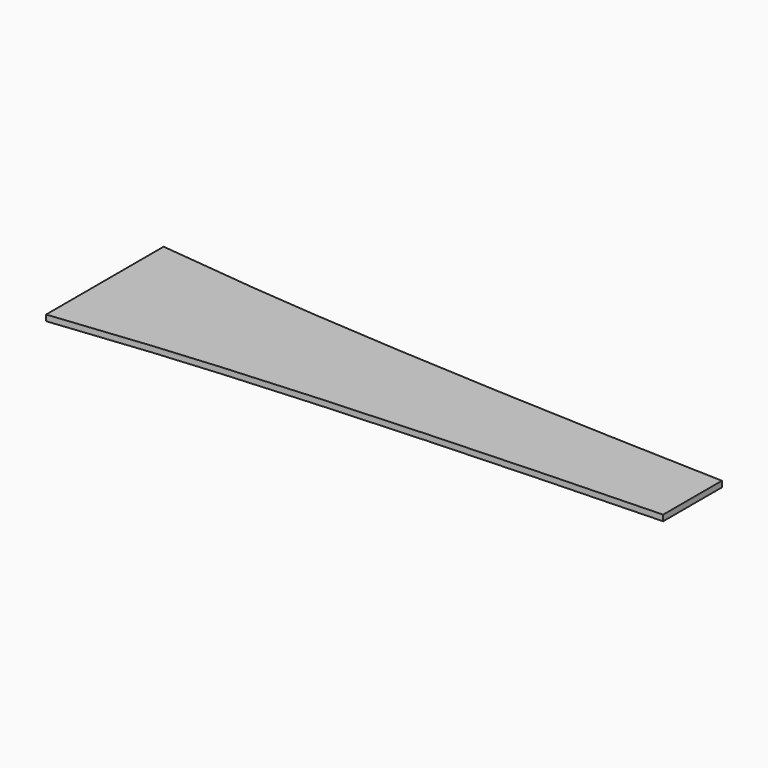
from build123d import *

# Parameters (mm, degrees)
F1_DEPTH = 2


with BuildPart() as f1:
    # F0 (on Top) → F1 (new body)
    with BuildSketch(Plane.XY):
        with BuildLine():
            add(Edge.make_bspline(
                [(0, 25), (6.678434, 24.268431), (19.985291, 22.80475), (39.982325, 20.749955), (59.992143, 19.203632), (79.99404, 17.824374), (99.99595, 16.643772), (119.997047, 15.604537), (139.997606, 14.688974), (159.999096, 13.875548), (179.995937, 13.142624), (193.339016, 12.715264), (200, 12.5)],
                knots=[0, 0, 0, 0, 20.117669, 40.216825, 60.280922, 80.328043, 100.363414, 120.390545, 140.411652, 160.428333, 180.441687, 200.452505, 200.452505, 200.452505, 200.452505], degree=3))
            Line((0, 25), (0, -25))
            add(Edge.make_bspline(
                [(0, -25), (6.678434, -24.268431), (19.985291, -22.80475), (39.982325, -20.749955), (59.992143, -19.203632), (79.99404, -17.824374), (99.99595, -16.643772), (119.997047, -15.604537), (139.997606, -14.688974), (159.999096, -13.875548), (179.995937, -13.142624), (193.339016, -12.715264), (200, -12.5)],
                knots=[0, 0, 0, 0, 20.117669, 40.216825, 60.280922, 80.328043, 100.363414, 120.390545, 140.411652, 160.428333, 180.441687, 200.452505, 200.452505, 200.452505, 200.452505], degree=3))
            Line((200, -12.5), (200, 12.5))
        make_face()
    extrude(amount=F1_DEPTH)


solid = f1.part
